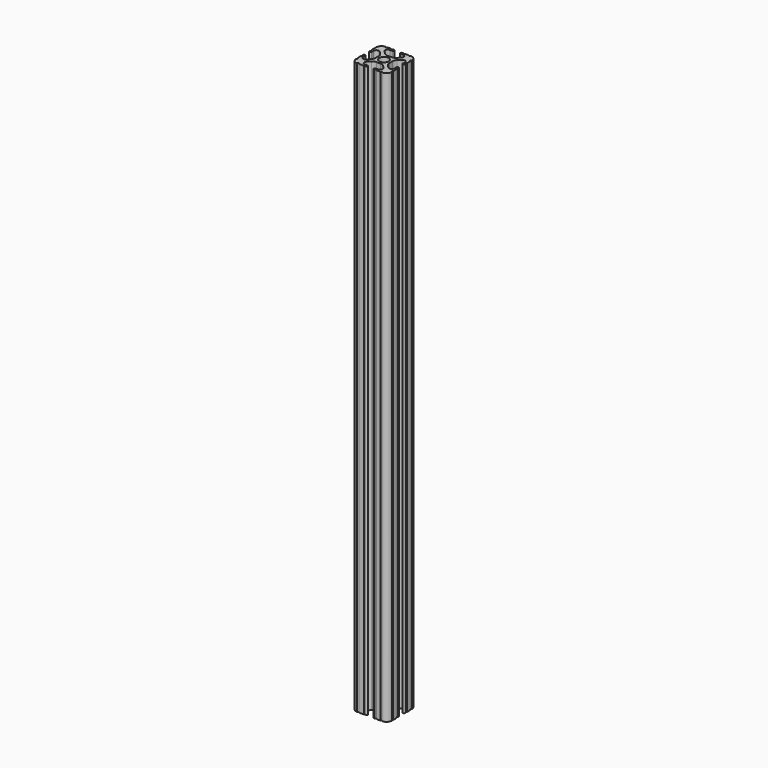
from build123d import *

# Parameters (mm, degrees)
F0_R     = 3.362501
F1_DEPTH = 406.4


with BuildPart() as f1:
    # F0 (on Top) → F1 (new body)
    with BuildSketch(Plane.XY):
        with BuildLine():
            ThreePointArc((-8.548576, 18.755238), (-9.784629, 17.929334), (-11.242653, 17.639315))
            Line((-11.242653, 17.639315), (-14.157347, 17.639315))
            ThreePointArc((-14.157347, 17.639315), (-15.615371, 17.929334), (-16.851424, 18.755238))
            Line((-16.851424, 18.755238), (-18.696905, 20.600719))
            ThreePointArc((-18.696905, 20.600719), (-19.109857, 22.67677), (-17.349867, 23.852758))
            Line((-17.349867, 23.852758), (-15.615371, 23.852758))
            Line((-15.615371, 23.852758), (-15.58302, 23.852758))
            ThreePointArc((-15.58302, 23.852758), (-14.825405, 24.626379), (-15.58302, 25.4))
            Line((-15.58302, 25.4), (-15.615371, 25.4))
            Line((-15.615371, 25.4), (-16.253341, 25.4))
            ThreePointArc((-16.253341, 25.4), (-16.801604, 24.858772), (-17.349867, 25.4))
            Line((-17.349867, 25.4), (-20.487482, 25.4))
            ThreePointArc((-20.487482, 25.4), (-21.038741, 24.848741), (-21.59, 25.4))
            ThreePointArc((-21.59, 25.4), (-24.284077, 24.284077), (-25.4, 21.59))
            Line((-25.4, 21.59), (-25.4, 20.504724))
            Line((-25.4, 20.504724), (-25.4, 17.349867))
            ThreePointArc((-25.4, 17.349867), (-24.844161, 16.802675), (-25.4, 16.255483))
            Line((-25.4, 16.255483), (-25.4, 15.615371))
            ThreePointArc((-25.4, 15.615371), (-24.626379, 14.859554), (-23.852758, 15.615371))
            Line((-23.852758, 15.615371), (-23.852758, 17.349867))
            ThreePointArc((-23.852758, 17.349867), (-22.67677, 19.109857), (-20.600719, 18.696905))
            Line((-20.600719, 18.696905), (-18.755238, 16.851424))
            ThreePointArc((-18.755238, 16.851424), (-17.929334, 15.615371), (-17.639315, 14.157347))
            Line((-17.639315, 14.157347), (-17.639315, 11.242653))
            ThreePointArc((-17.639315, 11.242653), (-17.929334, 9.784629), (-18.755238, 8.548576))
            Line((-18.755238, 8.548576), (-20.600719, 6.703095))
            ThreePointArc((-20.600719, 6.703095), (-22.67677, 6.290143), (-23.852758, 8.050133))
            Line((-23.852758, 8.050133), (-23.852758, 9.784629))
            ThreePointArc((-23.852758, 9.784629), (-24.626379, 10.55825), (-25.4, 9.784629))
            Line((-25.4, 9.784629), (-25.4, 9.149239))
            ThreePointArc((-25.4, 9.149239), (-24.899374, 8.599686), (-25.4, 8.050133))
            Line((-25.4, 8.050133), (-25.4, 4.904538))
            ThreePointArc((-25.4, 4.904538), (-24.846216, 4.357269), (-25.4, 3.81))
            ThreePointArc((-25.4, 3.81), (-24.284077, 1.115923), (-21.59, 0))
            ThreePointArc((-21.59, 0), (-21.040817, 0.554885), (-20.491634, 0))
            Line((-20.491634, 0), (-16.708169, 0))
            ThreePointArc((-16.708169, 0), (-16.16177, 0.540135), (-15.615371, 0))
            ThreePointArc((-15.615371, 0), (-14.854184, 0.7747), (-15.615371, 1.5494))
            Line((-15.615371, 1.5494), (-17.347709, 1.5494))
            ThreePointArc((-17.347709, 1.5494), (-19.107699, 2.725388), (-18.694747, 4.801438))
            Line((-18.694747, 4.801438), (-16.851424, 6.644762))
            ThreePointArc((-16.851424, 6.644762), (-15.615371, 7.470666), (-14.157347, 7.760685))
            Line((-14.157347, 7.760685), (-11.242653, 7.760685))
            ThreePointArc((-11.242653, 7.760685), (-9.784629, 7.470666), (-8.548576, 6.644762))
            Line((-8.548576, 6.644762), (-6.705253, 4.801438))
            ThreePointArc((-6.705253, 4.801438), (-6.292301, 2.725388), (-8.052291, 1.5494))
            Line((-8.052291, 1.5494), (-9.784629, 1.5494))
            ThreePointArc((-9.784629, 1.5494), (-10.401836, 0.7747), (-9.784629, 0))
            Line((-9.784629, 0), (-9.152868, 0))
            ThreePointArc((-9.152868, 0), (-8.602579, 0.545262), (-8.052291, 0))
            Line((-8.052291, 0), (-4.898866, 0))
            ThreePointArc((-4.898866, 0), (-4.354433, 0.544433), (-3.81, 0))
            ThreePointArc((-3.81, 0), (-1.115923, 1.115923), (0, 3.81))
            ThreePointArc((0, 3.81), (-0.53938, 4.3561), (0, 4.9022))
            Line((0, 4.9022), (0, 8.052291))
            ThreePointArc((0, 8.052291), (-0.543517, 8.60166), (0, 9.151029))
            Line((0, 9.151029), (0, 9.784629))
            ThreePointArc((0, 9.784629), (-0.7747, 10.504691), (-1.5494, 9.784629))
            Line((-1.5494, 9.784629), (-1.5494, 8.052291))
            ThreePointArc((-1.5494, 8.052291), (-2.725388, 6.292301), (-4.801438, 6.705253))
            Line((-4.801438, 6.705253), (-6.644762, 8.548576))
            ThreePointArc((-6.644762, 8.548576), (-7.470666, 9.784629), (-7.760685, 11.242653))
            Line((-7.760685, 11.242653), (-7.760685, 14.157347))
            ThreePointArc((-7.760685, 14.157347), (-7.470666, 15.615371), (-6.644762, 16.851424))
            Line((-6.644762, 16.851424), (-4.801438, 18.694747))
            ThreePointArc((-4.801438, 18.694747), (-2.725388, 19.107699), (-1.5494, 17.347709))
            Line((-1.5494, 17.347709), (-1.5494, 15.615371))
            ThreePointArc((-1.5494, 15.615371), (-0.7747, 14.879405), (0, 15.615371))
            Line((0, 15.615371), (0, 16.255509))
            ThreePointArc((0, 16.255509), (-0.5461, 16.801609), (0, 17.347709))
            Line((0, 17.347709), (0, 20.495165))
            ThreePointArc((0, 20.495165), (-0.551056, 21.042583), (0, 21.59))
            ThreePointArc((0, 21.59), (-1.115923, 24.284077), (-3.81, 25.4))
            ThreePointArc((-3.81, 25.4), (-4.365303, 24.903619), (-4.920606, 25.4))
            Line((-4.920606, 25.4), (-8.050133, 25.4))
            ThreePointArc((-8.050133, 25.4), (-8.596365, 24.859433), (-9.142596, 25.4))
            Line((-9.142596, 25.4), (-9.784629, 25.4))
            Line((-9.784629, 25.4), (-9.856203, 25.4))
            ThreePointArc((-9.856203, 25.4), (-10.594864, 24.626379), (-9.856203, 23.852758))
            Line((-9.856203, 23.852758), (-9.784629, 23.852758))
            Line((-9.784629, 23.852758), (-8.050133, 23.852758))
            ThreePointArc((-8.050133, 23.852758), (-6.290143, 22.67677), (-6.703095, 20.600719))
            Line((-6.703095, 20.600719), (-8.548576, 18.755238))
        make_face()
        with Locations((-12.7, 12.7)):
            Circle(F0_R, mode=Mode.SUBTRACT)
        with BuildLine():
            ThreePointArc((-9.856203, 23.852758), (-9.820416, 23.851931), (-9.784629, 23.852758))
            Line((-9.784629, 23.852758), (-9.856203, 23.852758))
        make_face()
        with BuildLine():
            Line((-15.58302, 23.852758), (-15.615371, 23.852758))
            ThreePointArc((-15.615371, 23.852758), (-15.599195, 23.852589), (-15.58302, 23.852758))
        make_face()
        with BuildLine():
            ThreePointArc((-9.784629, 25.4), (-9.820416, 25.400827), (-9.856203, 25.4))
            Line((-9.856203, 25.4), (-9.784629, 25.4))
        make_face()
        with BuildLine():
            Line((-15.615371, 25.4), (-15.58302, 25.4))
            ThreePointArc((-15.58302, 25.4), (-15.599195, 25.400169), (-15.615371, 25.4))
        make_face()
    extrude(amount=F1_DEPTH)


solid = f1.part
